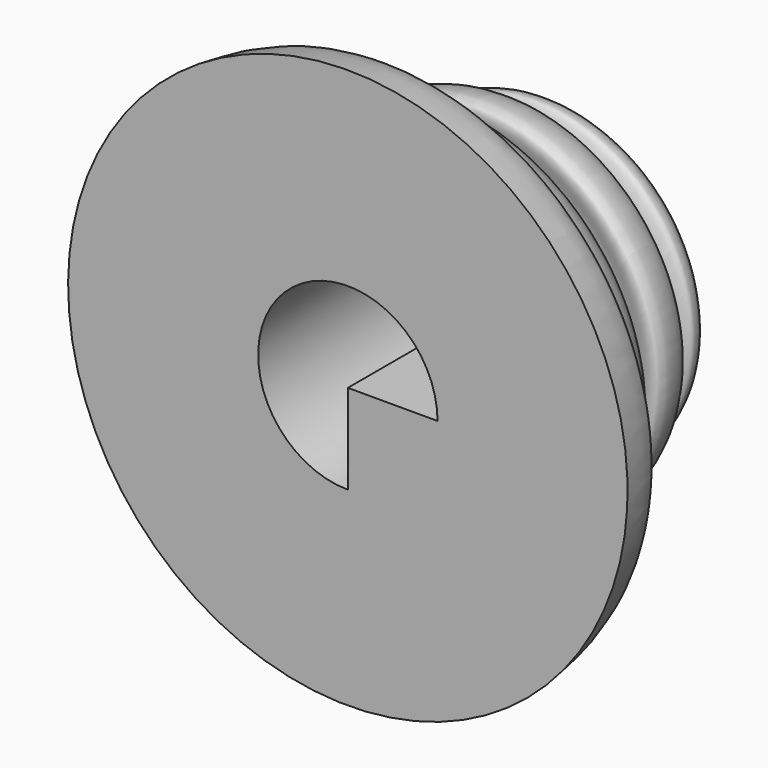
from build123d import *

# Parameters (mm, degrees)
F1_DEPTH = 25.4


with BuildPart() as f1:
    # F0 (on Top) → F1 (new body)
    with BuildSketch(Plane.XY):
        with BuildLine():
            Line((0, 76.8517106771), (0, 0))
            Line((0, 0), (75.0469714403, 0))
            add(Edge.make_bspline(
                [(75.0469714403, 0), (73.9884666937, 6.7621640203), (71.8550317889, 20.3914243514), (53.0069468853, 5.5841211893), (44.9687384362, 21.5469945758), (62.5967017861, 19.1184598971), (48.6296992833, 41.1419391137), (37.5129845982, 25.8955813694), (28.648726451, 31.2844385868), (31.3674926178, 49.9984669112), (49.5621011435, 39.2348148567), (42.6762770713, 64.8509927499), (26.8364730712, 49.8217807865), (21.0132009105, 64.0990711639), (43.6654102805, 62.6883509819), (28.8509361654, 77.7365511511), (18.6108761178, 67.6683060704), (13.9490451063, 77.624469198), (5.0997418737, 77.1342295849), (0, 76.8517106771)],
                knots=[0, 0, 0, 0, 0.0683834331, 0.1378280103, 0.1900153136, 0.2417923563, 0.3079646259, 0.3713520427, 0.4173547586, 0.4801188955, 0.5380596959, 0.6014390271, 0.666793626, 0.7119486995, 0.775141288, 0.8329013831, 0.8893919645, 0.9362579838, 1, 1, 1, 1], degree=3))
        make_face()
    extrude(amount=F1_DEPTH)

    # F1_face (on face) → F2 (revolve)
    with BuildSketch(Plane(origin=(25.7203857466, 31.417430414, 0), x_dir=(1, 0, 0), z_dir=(0, 0, -1))):
        with BuildLine():
            Line((-25.7203857466, 31.417430414), (-25.7203857466, -45.4342802632))
            add(Edge.make_bspline(
                [(49.3265856937, 31.417430414), (48.2680809471, 24.6552663937), (46.1346460423, 11.0260060626), (27.2865611387, 25.8333092247), (19.2483526896, 9.8704358382), (36.8763160395, 12.2989705169), (22.9093135367, -9.7245086997), (11.7925988516, 5.5218490446), (2.9283407043, 0.1329918272), (5.6471068712, -18.5810364973), (23.8417153969, -7.8173844427), (16.9558913247, -33.4335623359), (1.1160873245, -18.4043503725), (-4.7071848361, -32.6816407499), (17.9450245339, -31.2709205679), (3.1305504188, -46.3191207371), (-7.1095096289, -36.2508756564), (-11.7713406403, -46.207038784), (-20.6206438729, -45.7167991709), (-25.7203857466, -45.4342802632)],
                knots=[0, 0, 0, 0, 0.0683834331, 0.1378280103, 0.1900153136, 0.2417923563, 0.3079646259, 0.3713520427, 0.4173547586, 0.4801188955, 0.5380596959, 0.6014390271, 0.666793626, 0.7119486995, 0.775141288, 0.8329013831, 0.8893919645, 0.9362579838, 1, 1, 1, 1], degree=3))
            Line((49.3265856937, 31.417430414), (-25.7203857466, 31.417430414))
        make_face()
    revolve(axis=Axis((0, 38.4258553386, 25.4), (0, -1, 0)))


solid = f1.part
